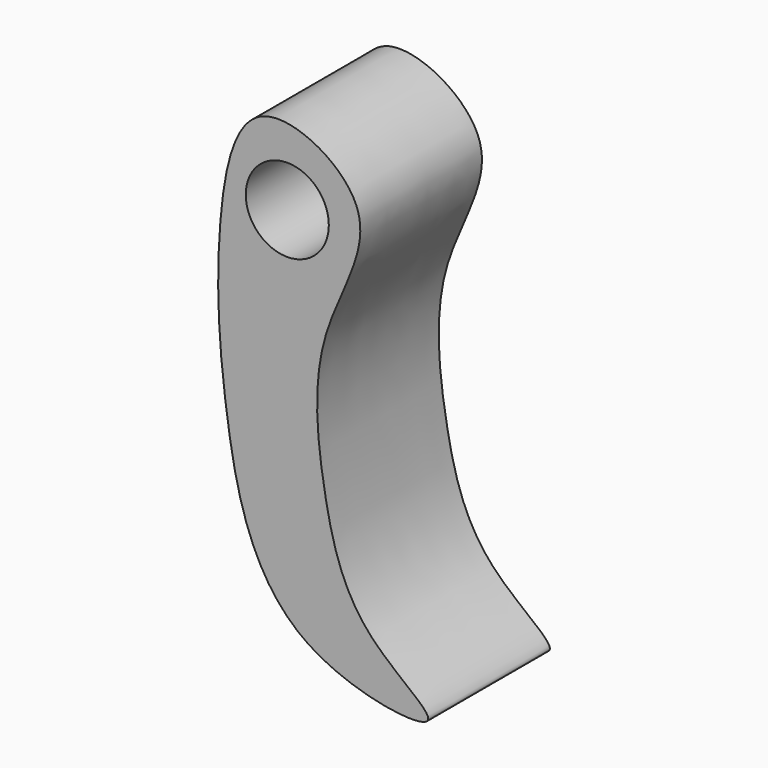
from build123d import *

# Parameters (mm, degrees)
F0_R     = 6.9387438129
F1_DEPTH = 25.4


with BuildPart() as f1:
    # F0 (on Front) → F1 (new body)
    with BuildSketch(Plane.XZ):
        with BuildLine():
            add(Edge.make_bspline(
                [(-11.8619482964, -19.0721508116), (-12.7961022205, -20.8374735199), (-39.2084024213, -17.4182677668), (-46.2666898662, 15.0559438951), (-47.7671536382, 41.0305457325), (-42.7880584387, 67.180996425), (-16.7478599701, 53.0579925443), (-32.0246808417, 32.2434647388), (-29.6323586853, 8.7740119316), (-24.8045883788, -9.8934846), (-11.1239017502, -17.6774231395), (-11.8619482964, -19.0721508116)],
                knots=[0, 0, 0, 0, 0.1095389728, 0.2443530102, 0.3733405595, 0.4784853574, 0.5788801328, 0.6885658248, 0.8049333714, 0.9134565959, 1, 1, 1, 1], degree=3))
        make_face()
        with Locations((-35.3532582521, 48.3781397343)):
            Circle(F0_R, mode=Mode.SUBTRACT)
    extrude(amount=F1_DEPTH)


solid = f1.part
